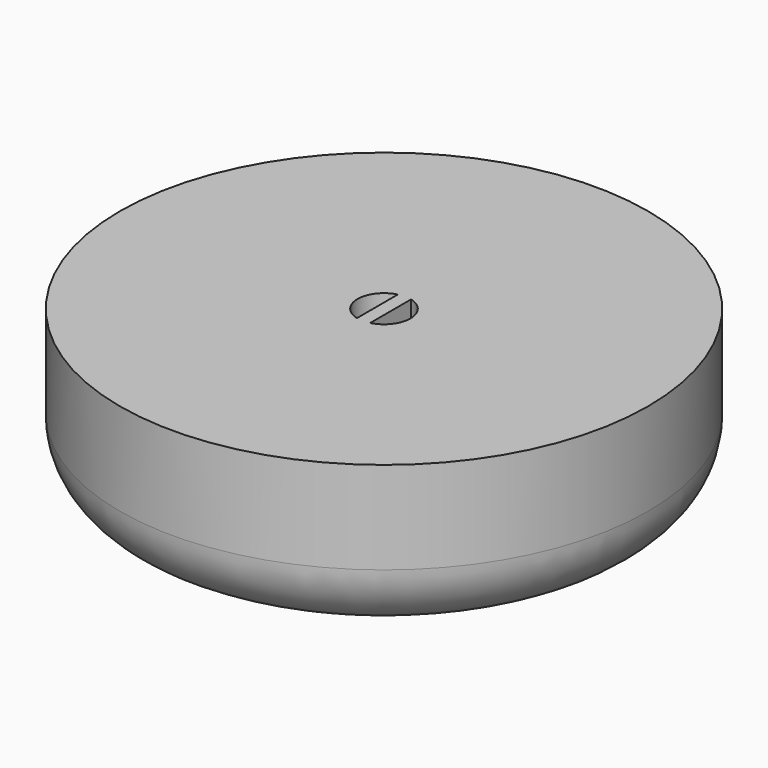
from build123d import *

# Parameters (mm, degrees)
F0_R     = 20
F1_DEPTH = 10
F2_DEPTH = 2
F3_R     = 5


with BuildPart() as f1:
    # F0 (on Top) → F1 (new body)
    with BuildSketch(Plane.XY):
        Circle(F0_R)
        with BuildLine():
            ThreePointArc((0.5, 1.936492), (1.581139, 1.224745), (2, 0))
            ThreePointArc((2, 0), (1.581139, -1.224745), (0.5, -1.936492))
            ThreePointArc((0.5, -1.936492), (0, -2), (-0.5, -1.936492))
            ThreePointArc((-0.5, -1.936492), (-2, 0), (-0.5, 1.936492))
            ThreePointArc((-0.5, 1.936492), (0, 2), (0.5, 1.936492))
        make_face(mode=Mode.SUBTRACT)
        with BuildLine():
            Line((0.5, 0), (0.5, 1.936492))
            ThreePointArc((0.5, 1.936492), (0, 2), (-0.5, 1.936492))
            Line((-0.5, 1.936492), (-0.5, 0))
            Line((-0.5, 0), (-0.5, -1.936492))
            ThreePointArc((-0.5, -1.936492), (0, -2), (0.5, -1.936492))
            Line((0.5, -1.936492), (0.5, 0))
        make_face()
    extrude(amount=F1_DEPTH)

    # F0 (on Top) → F2 (join)
    with BuildSketch(Plane.XY):
        Circle(F0_R)
        with BuildLine():
            ThreePointArc((0.5, 1.936492), (1.581139, 1.224745), (2, 0))
            ThreePointArc((2, 0), (1.581139, -1.224745), (0.5, -1.936492))
            ThreePointArc((0.5, -1.936492), (0, -2), (-0.5, -1.936492))
            ThreePointArc((-0.5, -1.936492), (-2, 0), (-0.5, 1.936492))
            ThreePointArc((-0.5, 1.936492), (0, 2), (0.5, 1.936492))
        make_face(mode=Mode.SUBTRACT)
        with BuildLine():
            ThreePointArc((0.5, -1.936492), (1.581139, -1.224745), (2, 0))
            ThreePointArc((2, 0), (1.581139, 1.224745), (0.5, 1.936492))
            Line((0.5, 1.936492), (0.5, 0))
            Line((0.5, 0), (0.5, -1.936492))
        make_face()
        with BuildLine():
            Line((-0.5, 0), (-0.5, 1.936492))
            ThreePointArc((-0.5, 1.936492), (-2, 0), (-0.5, -1.936492))
            Line((-0.5, -1.936492), (-0.5, 0))
        make_face()
        with BuildLine():
            Line((0.5, 0), (0.5, 1.936492))
            ThreePointArc((0.5, 1.936492), (0, 2), (-0.5, 1.936492))
            Line((-0.5, 1.936492), (-0.5, 0))
            Line((-0.5, 0), (-0.5, -1.936492))
            ThreePointArc((-0.5, -1.936492), (0, -2), (0.5, -1.936492))
            Line((0.5, -1.936492), (0.5, 0))
        make_face()
    extrude(amount=-F2_DEPTH)

    # F3
    f3_edges = [f1.edges().sort_by_distance(p)[0] for p in [
        (-20, 0, -2),
    ]]
    fillet(f3_edges, radius=F3_R)


solid = f1.part
